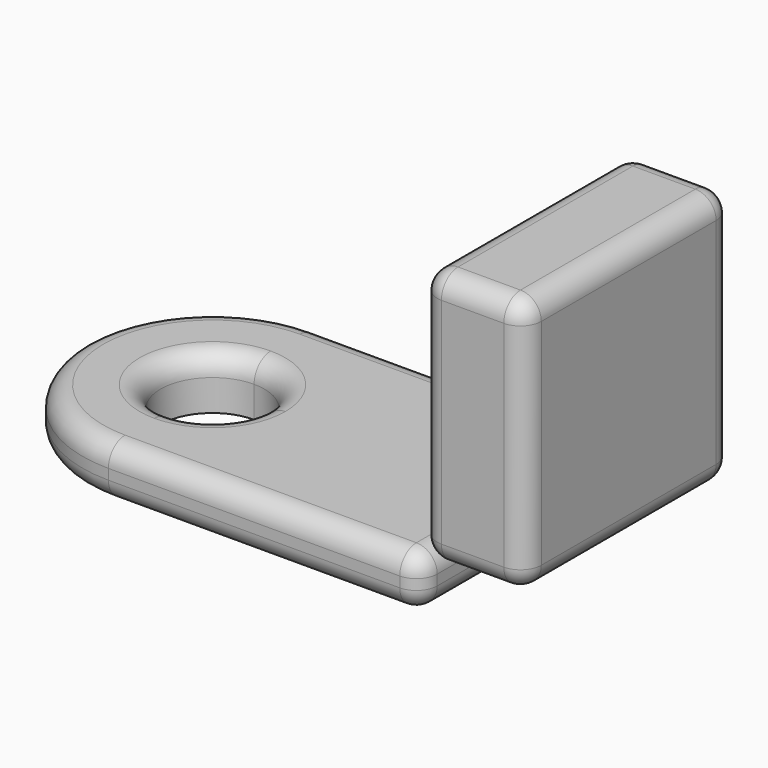
from build123d import *

# Parameters (mm, degrees)
F1_DEPTH = 12.7
F3_DEPTH = 25.4
F4_R     = 5.08
F4_2_R   = 5.08
F5_R     = 5.08
F6_R     = 5.08
F7_R     = 5.08
F8_R     = 5.08
F9_R     = 5.08


with BuildPart() as f1:
    # F0 (on Top) → F1 (new body)
    with BuildSketch(Plane.XY):
        with BuildLine():
            Line((-38.1, 12.7), (-38.1, 31.75))
            ThreePointArc((-38.1, 31.75), (-69.85, 0), (-38.1, -31.75))
            Line((-38.1, -31.75), (-38.1, -12.7))
            ThreePointArc((-38.1, -12.7), (-50.8, 0), (-38.1, 12.7))
        make_face()
        with BuildLine():
            ThreePointArc((-6.35, 0), (-15.6493596973, 22.4506403027), (-38.1, 31.75))
            Line((-38.1, 31.75), (-38.1, 12.7))
            ThreePointArc((-38.1, 12.7), (-29.1197438789, 8.9802561211), (-25.4, 0))
            ThreePointArc((-25.4, 0), (-29.1197438789, -8.9802561211), (-38.1, -12.7))
            Line((-38.1, -12.7), (-38.1, -31.75))
            ThreePointArc((-38.1, -31.75), (-15.6493596973, -22.4506403027), (-6.35, 0))
        make_face()
        with BuildLine():
            Line((38.1, 31.75), (-38.1, 31.75))
            ThreePointArc((-38.1, 31.75), (-15.6493596973, 22.4506403027), (-6.35, 0))
            ThreePointArc((-6.35, 0), (-15.6493596973, -22.4506403027), (-38.1, -31.75))
            Line((-38.1, -31.75), (38.1, -31.75))
            Line((38.1, -31.75), (38.1, 31.75))
        make_face()
    extrude(amount=F1_DEPTH)

    # F4
    f4_edges = [f1.edges().sort_by_distance(p)[0] for p in [
        (38.1, 0, 0),
        (38.1, 0, 12.7),
    ]]
    fillet(f4_edges, radius=F4_R)

    # F8
    f8_edges = [f1.edges().sort_by_distance(p)[0] for p in [
        (-69.85, 0, 0),
    ]]
    fillet(f8_edges, radius=F8_R)

    # F9
    f9_edges = [f1.edges().sort_by_distance(p)[0] for p in [
        (-38.1, -12.7, 12.7),
        (-64.77, 0, 12.7),
        (-2.54, 26.67, 12.7),
        (-2.54, -26.67, 12.7),
        (-2.54, -31.75, 7.62),
        (-38.1, -30.262102, 11.212102),
        (-38.1, 30.262102, 11.212102),
    ]]
    fillet(f9_edges, radius=F9_R)


with BuildPart() as f3:
    # F2 (on face) → F3 (new body)
    with BuildSketch(Plane.YZ.offset(38.1)):
        Polygon((-29.4669698924, 12.7), (31.75, 12.7), (31.75, 75.253136456), (-31.75, 75.253136456), (-31.75, 12.7), align=None)
    extrude(amount=F3_DEPTH)

    # F4#2
    f4_2_edges = [f3.edges().sort_by_distance(p)[0] for p in [
        (63.5, 0, 12.7),
    ]]
    fillet(f4_2_edges, radius=F4_2_R)

    # F5
    f5_edges = [f3.edges().sort_by_distance(p)[0] for p in [
        (38.1, 0, 12.7),
    ]]
    fillet(f5_edges, radius=F5_R)

    # F6
    f6_edges = [f3.edges().sort_by_distance(p)[0] for p in [
        (63.5, 0, 75.253136),
    ]]
    fillet(f6_edges, radius=F6_R)

    # F7
    f7_edges = [f3.edges().sort_by_distance(p)[0] for p in [
        (48.26, 31.75, 75.253136),
        (58.42, 0, 75.253136),
        (38.1, 0, 75.253136),
        (48.26, -31.75, 75.253136),
    ]]
    fillet(f7_edges, radius=F7_R)


solid = Compound([f1.part, f3.part])
